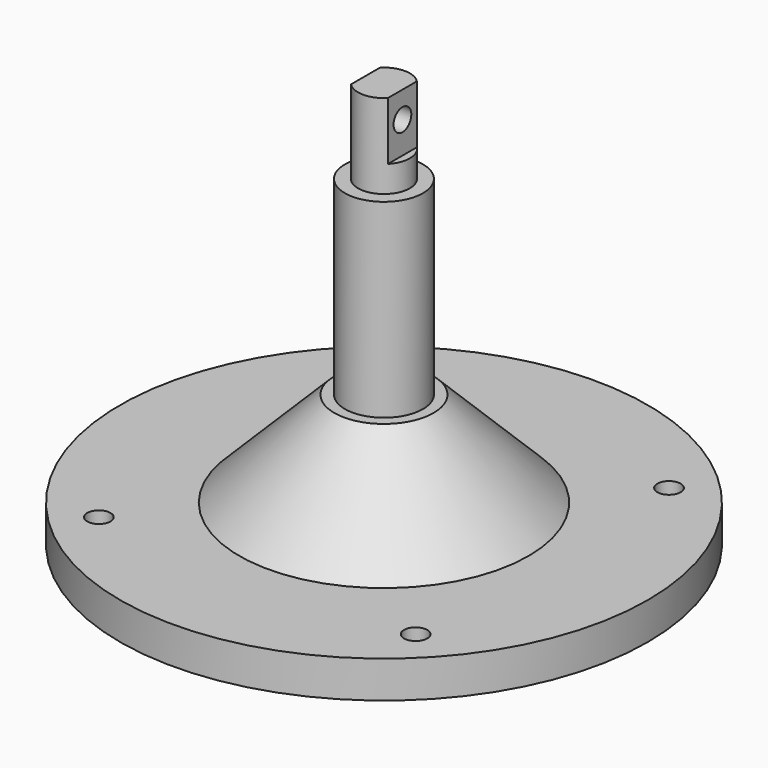
from build123d import *

# Parameters (mm, degrees)
SKETCH001_W     = 13.272844
SKETCH001_H     = 19.997346
SKETCH001_W_2   = 7
SKETCH001_H_2   = 12
POCKET_DEPTH    = 11
SKETCH002_R     = 2.1
POCKET001_DEPTH = 53.501
SKETCH003_R     = 2.2
POCKET002_DEPTH = 77.001


with BuildPart() as part:
    # Sketch → Revolution (revolve)
    with BuildSketch(Plane.XZ):
        Polygon((0, 0), (50, 0), (50, 7), (27.4, 7), (9.4, 25), (7.4, 25), (7.4, 61), (4.9, 61), (4.9, 77), (0, 77), align=None)
    revolve(axis=Axis((0, 0, 0), (0, 0, 1)))

    # Sketch001 (on DatumPlane) → Pocket (cut)
    with BuildSketch(Plane(origin=(0, 0, 77), x_dir=(-1, 0, 0), z_dir=(0, 0, 1))):
        Rectangle(SKETCH001_W, SKETCH001_H)
        Rectangle(SKETCH001_W_2, SKETCH001_H_2, mode=Mode.SUBTRACT)
    extrude(amount=-POCKET_DEPTH, mode=Mode.SUBTRACT)

    # Sketch002 (on DatumPlane) → Pocket001 (cut, through all)
    with BuildSketch(Plane(origin=(3.5, 0, 0), x_dir=(0, 0, 1), z_dir=(1, 0, 0))):
        with Locations((72, 0)):
            Circle(SKETCH002_R)
    extrude(amount=-POCKET001_DEPTH, mode=Mode.SUBTRACT)

    # Sketch003 (on DatumPlane) → Pocket002 (cut, through all)
    with BuildSketch(Plane(origin=(0, 0, 0), x_dir=(1, 0, 0), z_dir=(0, 0, -1))):
        with Locations((30, 30)):
            Circle(SKETCH003_R)
        with Locations((-30, 30)):
            Circle(SKETCH003_R)
        with Locations((-30, -30)):
            Circle(SKETCH003_R)
        with Locations((30, -30)):
            Circle(SKETCH003_R)
    extrude(amount=-POCKET002_DEPTH, mode=Mode.SUBTRACT)


solid = part.part
